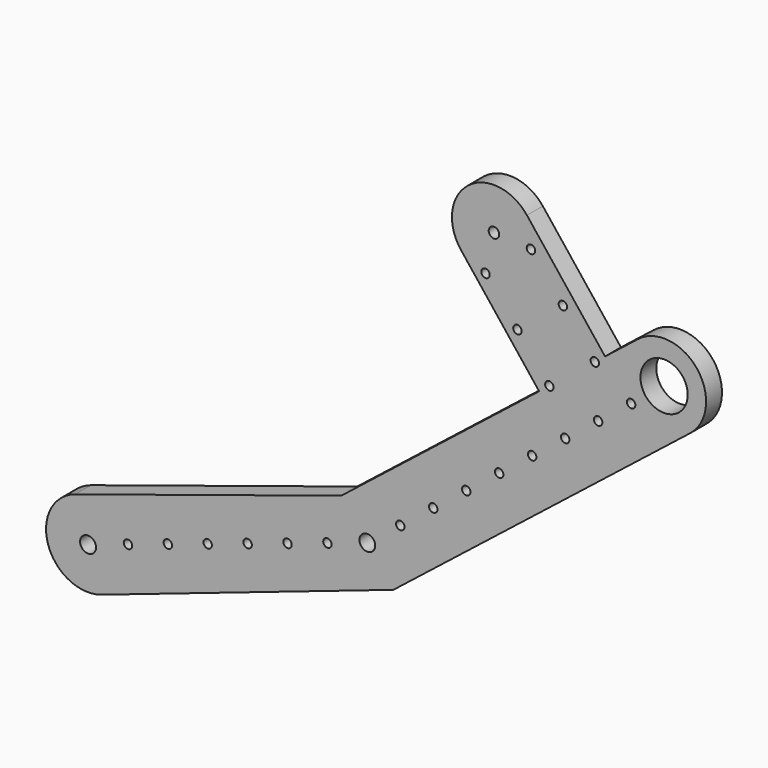
from build123d import *

# Parameters (mm, degrees)
F0_R     = 4.826
F0_R_2   = 2.5527
F0_R_3   = 4.7625
F0_R_4   = 3.175
F0_R_5   = 14.28115
F1_DEPTH = 12


with BuildPart() as f1:
    # F0 (on Front) → F1 (new body)
    with BuildSketch(Plane.XZ):
        with BuildLine():
            Line((-423.736694, 132.242903), (-584.775201, 80.589762))
            ThreePointArc((-584.775201, 80.589762), (-600.913731, 48.498208), (-568.822177, 32.359678))
            Line((-568.822177, 32.359678), (-392.250095, 92.377704))
            Line((-392.250095, 92.377704), (-212.8567, 234.067401))
            ThreePointArc((-212.8567, 234.067401), (-208.667401, 269.7433), (-244.3433, 273.932599))
            Line((-244.3433, 273.932599), (-264.275899, 258.1893))
            Line((-264.275899, 258.1893), (-311.505798, 317.987098))
            ThreePointArc((-311.505798, 317.987098), (-347.181697, 322.176398), (-351.370997, 286.500499))
            Line((-351.370997, 286.500499), (-304.141098, 226.702701))
            Line((-304.141098, 226.702701), (-423.736694, 132.242903))
        make_face()
        with Locations((-576.798689, 56.47472)):
            Circle(F0_R, mode=Mode.SUBTRACT)
        with Locations((-552.683647, 64.451232)):
            Circle(F0_R_2, mode=Mode.SUBTRACT)
        with Locations((-528.568605, 72.427744)):
            Circle(F0_R_2, mode=Mode.SUBTRACT)
        with Locations((-504.453563, 80.404256)):
            Circle(F0_R_2, mode=Mode.SUBTRACT)
        with Locations((-480.338521, 88.380768)):
            Circle(F0_R_2, mode=Mode.SUBTRACT)
        with Locations((-456.223479, 96.35728)):
            Circle(F0_R_2, mode=Mode.SUBTRACT)
        with Locations((-432.108436, 104.333792)):
            Circle(F0_R_2, mode=Mode.SUBTRACT)
        with Locations((-407.993394, 112.310304)):
            Circle(F0_R_3, mode=Mode.SUBTRACT)
        with Locations((-388.060795, 128.053603)):
            Circle(F0_R_2, mode=Mode.SUBTRACT)
        with Locations((-368.128196, 143.796903)):
            Circle(F0_R_2, mode=Mode.SUBTRACT)
        with Locations((-348.195596, 159.540202)):
            Circle(F0_R_2, mode=Mode.SUBTRACT)
        with Locations((-328.262997, 175.283502)):
            Circle(F0_R_2, mode=Mode.SUBTRACT)
        with Locations((-308.330397, 191.026802)):
            Circle(F0_R_2, mode=Mode.SUBTRACT)
        with Locations((-288.397798, 206.770101)):
            Circle(F0_R_2, mode=Mode.SUBTRACT)
        with Locations((-297.941588, 231.599239)):
            Circle(F0_R_2, mode=Mode.SUBTRACT)
        with Locations((-268.465199, 222.513401)):
            Circle(F0_R_2, mode=Mode.SUBTRACT)
        with Locations((-270.475408, 253.292762)):
            Circle(F0_R_2, mode=Mode.SUBTRACT)
        with Locations((-248.532599, 238.2567)):
            Circle(F0_R_2, mode=Mode.SUBTRACT)
        with Locations((-317.246, 255.27)):
            Circle(F0_R_2, mode=Mode.SUBTRACT)
        with Locations((-336.550412, 278.940761)):
            Circle(F0_R_2, mode=Mode.SUBTRACT)
        with Locations((-331.438397, 302.243798)):
            Circle(F0_R_4, mode=Mode.SUBTRACT)
        with Locations((-309.084231, 300.634284)):
            Circle(F0_R_2, mode=Mode.SUBTRACT)
        with Locations((-289.77982, 276.963523)):
            Circle(F0_R_2, mode=Mode.SUBTRACT)
        with Locations((-228.6, 254)):
            Circle(F0_R_5, mode=Mode.SUBTRACT)
    extrude(amount=F1_DEPTH)


solid = f1.part
